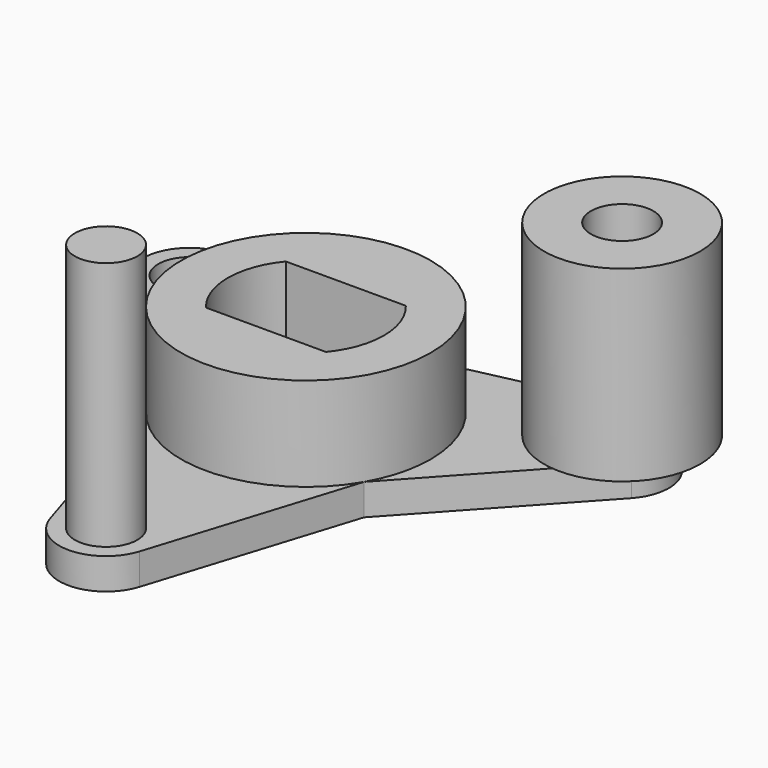
from build123d import *

# Parameters (mm, degrees)
F1_DEPTH  = 1
F2_W      = 3.8418745425
F2_H      = 3.2
F3_DEPTH  = 1.001
F4_R      = 4
F5_DEPTH  = 3
F6_R      = 1
F7_DEPTH  = 1.001
F8_R      = 1
F9_DEPTH  = 8
F10_R     = 2.5
F10_R_2   = 1
F11_DEPTH = 6


with BuildPart() as f1:
    # F0 (on Top) → F1 (new body)
    with BuildSketch(Plane.XY):
        with BuildLine():
            Line((-6.1782032303, 2.7009618943), (-6.9282032303, 4))
            Line((-6.9282032303, 4), (-5.4282032303, 4))
            ThreePointArc((-5.4282032303, 4), (-5.7583444162, 4.9388452243), (-6.6034437039, 5.4644218142))
            ThreePointArc((-6.6034437039, 5.4644218142), (-8.227241336, 4.75), (-8.03404996, 2.9865390929))
            ThreePointArc((-8.03404996, 2.9865390929), (-7.1563376377, 2.517449936), (-6.1782032303, 2.7009618943))
        make_face()
        Polygon((-5.4282032303, 4), (-6.9282032303, 4), (-6.1782032303, 2.7009618943), (-3.4641016151, -2), (-0.75, -6.7009618943), (0, -8), (0.75, -6.7009618943), (3.4641016151, -2), (6.1782032303, 2.7009618943), (6.9282032303, 4), (5.4282032303, 4), (0, 4), align=None)
        with BuildLine():
            ThreePointArc((-6.6034437039, 5.4644218142), (-5.7583444162, 4.9388452243), (-5.4282032303, 4))
            Line((-5.4282032303, 4), (0, 4))
            Line((0, 4), (-6.6034437039, 5.4644218142))
        make_face()
        with BuildLine():
            Line((-3.4641016151, -2), (-6.1782032303, 2.7009618943))
            ThreePointArc((-6.1782032303, 2.7009618943), (-7.1563376377, 2.517449936), (-8.03404996, 2.9865390929))
            Line((-8.03404996, 2.9865390929), (-3.4641016151, -2))
        make_face()
        with BuildLine():
            Line((6.6034437039, 5.4644218142), (0, 4))
            Line((0, 4), (5.4282032303, 4))
            ThreePointArc((5.4282032303, 4), (5.7583444162, 4.9388452243), (6.6034437039, 5.4644218142))
        make_face()
        with BuildLine():
            Line((-0.75, -6.7009618943), (-3.4641016151, -2))
            Line((-3.4641016151, -2), (-1.4306062562, -8.4509609071))
            ThreePointArc((-1.4306062562, -8.4509609071), (-1.3979932215, -7.4562951603), (-0.75, -6.7009618943))
        make_face()
        with BuildLine():
            ThreePointArc((6.6034437039, 5.4644218142), (5.7583444162, 4.9388452243), (5.4282032303, 4))
            Line((5.4282032303, 4), (6.9282032303, 4))
            Line((6.9282032303, 4), (6.1782032303, 2.7009618943))
            ThreePointArc((6.1782032303, 2.7009618943), (7.1563376377, 2.517449936), (8.03404996, 2.9865390929))
            ThreePointArc((8.03404996, 2.9865390929), (8.227241336, 4.75), (6.6034437039, 5.4644218142))
        make_face()
        with BuildLine():
            Line((0, -8), (-0.75, -6.7009618943))
            ThreePointArc((-0.75, -6.7009618943), (-1.3979932215, -7.4562951603), (-1.4306062562, -8.4509609071))
            ThreePointArc((-1.4306062562, -8.4509609071), (0, -9.5), (1.4306062562, -8.4509609071))
            ThreePointArc((1.4306062562, -8.4509609071), (1.3979932215, -7.4562951603), (0.75, -6.7009618943))
            Line((0.75, -6.7009618943), (0, -8))
        make_face()
        with BuildLine():
            Line((3.4641016151, -2), (8.03404996, 2.9865390929))
            ThreePointArc((8.03404996, 2.9865390929), (7.1563376377, 2.517449936), (6.1782032303, 2.7009618943))
            Line((6.1782032303, 2.7009618943), (3.4641016151, -2))
        make_face()
        with BuildLine():
            ThreePointArc((0.75, -6.7009618943), (1.3979932215, -7.4562951603), (1.4306062562, -8.4509609071))
            Line((1.4306062562, -8.4509609071), (3.4641016151, -2))
            Line((3.4641016151, -2), (0.75, -6.7009618943))
        make_face()
    extrude(amount=F1_DEPTH)

    # F2 (on face) → F3 (cut, through all)
    with BuildSketch(Plane(origin=(0, 0, 0), x_dir=(1, 0, 0), z_dir=(0, 0, -1))):
        with BuildLine():
            Line((-1.9209372712, -1.6), (-1.9209372712, 1.6))
            ThreePointArc((-1.9209372712, 1.6), (-2.5, 0), (-1.9209372712, -1.6))
        make_face()
        Rectangle(F2_W, F2_H)
        with BuildLine():
            ThreePointArc((1.9209372712, -1.6), (2.5, 0), (1.9209372712, 1.6))
            Line((1.9209372712, 1.6), (1.9209372712, -1.6))
        make_face()
    extrude(amount=-F3_DEPTH, mode=Mode.SUBTRACT)

    # F4 (on face) → F5 (join)
    with BuildSketch(Plane.XY.offset(1)):
        Circle(F4_R)
        with BuildLine():
            Line((-1.9209372712, 1.6), (1.9209372712, 1.6))
            ThreePointArc((1.9209372712, 1.6), (2.5, 0), (1.9209372712, -1.6))
            Line((1.9209372712, -1.6), (-1.9209372712, -1.6))
            ThreePointArc((-1.9209372712, -1.6), (-2.5, 0), (-1.9209372712, 1.6))
        make_face(mode=Mode.SUBTRACT)
    extrude(amount=F5_DEPTH)

    # F6 (on face) → F7 (cut, through all)
    with BuildSketch(Plane.XY.offset(1)):
        with Locations((-6.9282032303, 4)):
            Circle(F6_R)
        with Locations((0, -8)):
            Circle(F6_R)
        with Locations((6.9282032303, 4)):
            Circle(F6_R)
    extrude(amount=-F7_DEPTH, mode=Mode.SUBTRACT)


with BuildPart() as f9:
    # F8 (on face) → F9 (new body)
    with BuildSketch(Plane.XY.offset(1)):
        with Locations((0, -8)):
            Circle(F8_R)
    extrude(amount=F9_DEPTH)


with BuildPart() as f11:
    # F10 (on face) → F11 (new body)
    with BuildSketch(Plane.XY.offset(1)):
        with Locations((6.9282032303, 4)):
            Circle(F10_R)
        with Locations((6.9282032303, 4)):
            Circle(F10_R_2, mode=Mode.SUBTRACT)
    extrude(amount=F11_DEPTH)


solid = Compound([f1.part, f9.part, f11.part])
